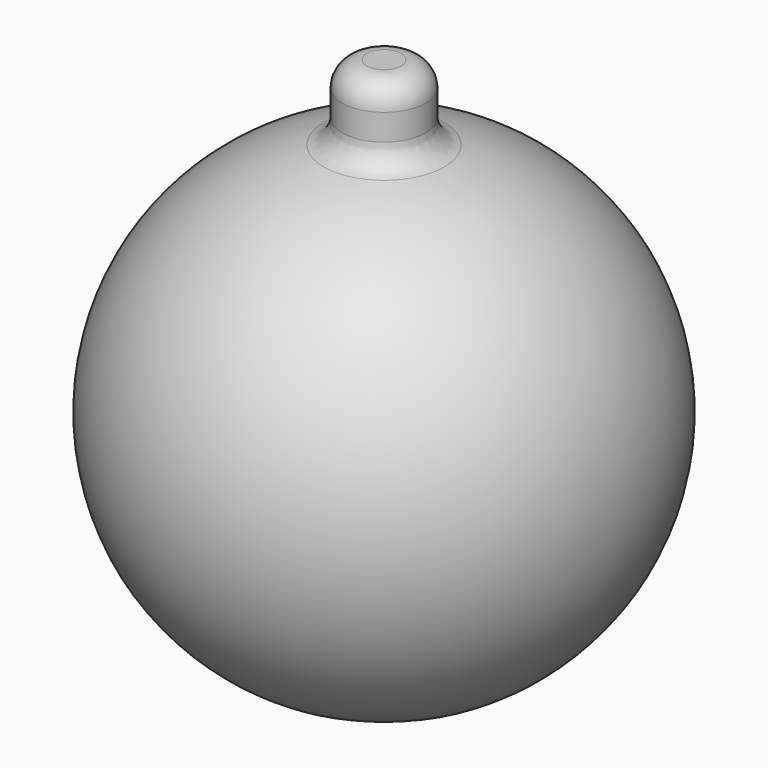
from build123d import *

# Parameters (mm, degrees)
F3_R     = 5.08
F4_R     = 6.35
F5_DEPTH = 172.61887
F6_DEPTH = 41.76555
F7_R     = 5.08
F8_R     = 12.7


with BuildPart() as f1:
    # F0 (on Front) → F1 (revolve)
    with BuildSketch(Plane.XZ):
        with BuildLine():
            Line((-8.599714, 0), (-8.599714, 49.293472))
            ThreePointArc((-8.599714, 49.293472), (-49.85152, -4.315942), (0, -50.038))
            Line((0, -50.038), (0, 0))
            Line((0, 0), (-8.599714, 0))
        make_face()
        with BuildLine():
            Line((0, 0), (0, 50.038))
            ThreePointArc((0, 50.038), (-4.315942, 49.85152), (-8.599714, 49.293472))
            Line((-8.599714, 49.293472), (-8.599714, 0))
            Line((-8.599714, 0), (0, 0))
        make_face()
    revolve(axis=Axis((0, 0, -29.846091), (0, 0, -1)))

    # F0 (on Front) → F2 (revolve)
    with BuildSketch(Plane.XZ):
        with BuildLine():
            ThreePointArc((-8.599714, 49.293472), (-4.315942, 49.85152), (0, 50.038))
            Line((0, 50.038), (0, 63.5))
            Line((0, 63.5), (0, 63.899145))
            Line((0, 63.899145), (-8.599714, 63.899145))
            Line((-8.599714, 63.899145), (-8.599714, 49.293472))
        make_face()
    revolve(axis=Axis((0, 0, -29.846091), (0, 0, -1)))

    # F3
    f3_edges = [f1.edges().sort_by_distance(p)[0] for p in [
        (8.599714, 0, 49.293472),
        (8.599714, 0, 63.899145),
    ]]
    fillet(f3_edges, radius=F3_R)

    # F4 (on Top) → F5 (cut)
    with BuildSketch(Plane.XY):
        Circle(F4_R)
    extrude(amount=-F5_DEPTH, mode=Mode.SUBTRACT)

    # F4 (on Top) → F6 (cut)
    with BuildSketch(Plane.XY):
        Circle(F4_R)
    extrude(amount=F6_DEPTH, mode=Mode.SUBTRACT)

    # F7
    f7_edges = [f1.edges().sort_by_distance(p)[0] for p in [
        (-6.35, 0, 41.76555),
    ]]
    fillet(f7_edges, radius=F7_R)

    # F8
    f8_edges = [f1.edges().sort_by_distance(p)[0] for p in [
        (0, 6.35, -49.633446),
        (0, -6.35, -49.633446),
    ]]
    fillet(f8_edges, radius=F8_R)


solid = f1.part
